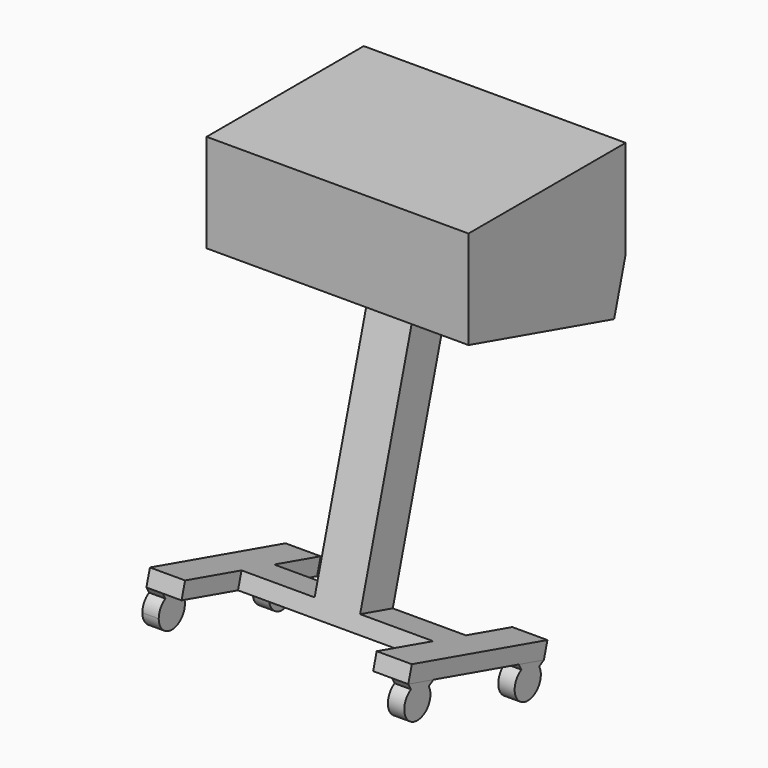
from build123d import *

# Parameters (mm, degrees)
F0_W      = 800
F0_H      = 600
F1_DEPTH  = 300
F3_DEPTH  = 800
F4_W      = 69.4863438606
F4_H      = 64.7975049443
F5_DEPTH  = 800
F7_DEPTH  = 50
F9_DEPTH  = 50
F11_DEPTH = 50


with BuildPart() as f1:
    # F0 (on Top) → F1 (new body)
    with BuildSketch(Plane.XY):
        with Locations((400, 300)):
            Rectangle(F0_W, F0_H)
    extrude(amount=F1_DEPTH)

    # F2 (on face) → F3 (join)
    with BuildSketch(Plane.YZ.offset(800)):
        Polygon((600, 0), (0, 0), (556.1016824686, -156.2431702084), align=None)
    extrude(amount=-F3_DEPTH)

    # F4 (on face) → F5 (join)
    with BuildSketch(Plane(origin=(0, 0, 0), x_dir=(1, 0, 0), z_dir=(0, -0.270488193, -0.9627232923))):
        with Locations((365.2568280697, -256.4182352039)):
            Rectangle(F4_W, F4_H)
        with Locations((434.7431719303, -256.4182352039)):
            Rectangle(F4_W, F4_H)
        with Locations((434.7431719303, -321.2157401482)):
            Rectangle(F4_W, F4_H)
        with Locations((365.2568280697, -321.2157401482)):
            Rectangle(F4_W, F4_H)
    extrude(amount=F5_DEPTH)

    # F6 (on face) → F7 (join)
    with BuildSketch(Plane(origin=(0, -216.3905544, -770.1786338029), x_dir=(1, 0, 0), z_dir=(0, -0.270488193, -0.9627232923))):
        Polygon((107.3435395956, 0), (0, 0), (0, -537.7870798111), (107.3435395956, -537.7870798111), (107.3435395956, -353.6144926203), (330.5136561394, -353.6144926203), (400, -353.6144926203), (400, -224.0194827318), (330.5136561394, -224.0194827318), (107.3435395956, -224.0194827318), align=None)
        Polygon((469.4863438606, -224.0194827318), (400, -224.0194827318), (400, -353.6144926203), (469.4863438606, -353.6144926203), (692.6564604044, -353.6144926203), (692.6564604044, -537.7870798111), (800, -537.7870798111), (800, 0), (692.6564604044, 0), (692.6564604044, -224.0194827318), align=None)
    extrude(amount=F7_DEPTH)

    # F8 (on face) → F9 (join)
    with BuildSketch(Plane(origin=(0, 0, 0), x_dir=(0, -1, 0), z_dir=(-1, 0, 0))):
        with BuildLine():
            Line((219.7774157302, -836.3747624852), (229.91496405, -818.3147984155))
            Line((229.91496405, -818.3147984155), (181.7787994373, -831.8392080655))
            ThreePointArc((181.7787994373, -831.8392080655), (201.2291965173, -830.3277879134), (219.7774157302, -836.3747624852))
        make_face()
        with BuildLine():
            ThreePointArc((151.7025988943, -855.5011660354), (164.3873711275, -840.6789229246), (181.7787994373, -831.8392080655))
            Line((181.7787994373, -831.8392080655), (133.6426348247, -845.3636177156))
            Line((133.6426348247, -845.3636177156), (151.7025988943, -855.5011660354))
        make_face()
        with BuildLine():
            ThreePointArc((219.7774157302, -836.3747624852), (201.2291965173, -830.3277879134), (181.7787994373, -831.8392080655))
            Line((181.7787994373, -831.8392080655), (195.3032090873, -879.9753726782))
            Line((195.3032090873, -879.9753726782), (219.7774157302, -836.3747624852))
        make_face()
        with BuildLine():
            Line((195.3032090873, -879.9753726782), (181.7787994373, -831.8392080655))
            ThreePointArc((181.7787994373, -831.8392080655), (164.3873711275, -840.6789229246), (151.7025988943, -855.5011660354))
            Line((151.7025988943, -855.5011660354), (195.3032090873, -879.9753726782))
        make_face()
        with BuildLine():
            ThreePointArc((245.3032090873, -879.9753726782), (238.4524288494, -854.7138439452), (219.7774157302, -836.3747624852))
            Line((219.7774157302, -836.3747624852), (195.3032090873, -879.9753726782))
            Line((195.3032090873, -879.9753726782), (151.7025988943, -855.5011660354))
            ThreePointArc((151.7025988943, -855.5011660354), (182.6547014609, -928.3490768451), (245.3032090873, -879.9753726782))
        make_face()
        with BuildLine():
            Line((-239.6890150783, -950.2554430038), (-287.8251839572, -963.7798538524))
            Line((-287.8251839572, -963.7798538524), (-269.7652198875, -973.9174021722))
            ThreePointArc((-269.7652198875, -973.9174021722), (-257.0804459129, -959.0951576914), (-239.6890150783, -950.2554430038))
        make_face()
        with BuildLine():
            ThreePointArc((-239.6890150783, -950.2554430038), (-257.0804459129, -959.0951576914), (-269.7652198875, -973.9174021722))
            Line((-269.7652198875, -973.9174021722), (-226.1646096945, -998.3916088151))
            Line((-226.1646096945, -998.3916088151), (-201.6904030516, -954.7909986221))
            ThreePointArc((-201.6904030516, -954.7909986221), (-220.2386200645, -948.7440243129), (-239.6890150783, -950.2554430038))
        make_face()
        with BuildLine():
            Line((-226.1646096945, -998.3916088151), (-269.7652198875, -973.9174021722))
            ThreePointArc((-269.7652198875, -973.9174021722), (-238.8131173209, -1046.765312982), (-176.1646096945, -998.3916088151))
            ThreePointArc((-176.1646096945, -998.3916088151), (-183.0153899325, -973.1300800821), (-201.6904030516, -954.7909986221))
            Line((-201.6904030516, -954.7909986221), (-226.1646096945, -998.3916088151))
        make_face()
        with BuildLine():
            Line((-191.5528547318, -936.7310345524), (-239.6890150783, -950.2554430038))
            ThreePointArc((-239.6890150783, -950.2554430038), (-220.2386200645, -948.7440243129), (-201.6904030516, -954.7909986221))
            Line((-201.6904030516, -954.7909986221), (-191.5528547318, -936.7310345524))
        make_face()
    extrude(amount=-F9_DEPTH)


with BuildPart() as f11:
    # F10 (on face) → F11 (new body)
    with BuildSketch(Plane.YZ.offset(800)):
        with BuildLine():
            Line((269.7652198875, -973.9174021722), (287.8251839572, -963.7798538524))
            Line((287.8251839572, -963.7798538524), (239.6890193445, -950.2554442024))
            ThreePointArc((239.6890193445, -950.2554442024), (257.0804476543, -959.0951590614), (269.7652198875, -973.9174021722))
        make_face()
        with BuildLine():
            ThreePointArc((201.6904030516, -954.7909986221), (220.2386222645, -948.7440240503), (239.6890193445, -950.2554442024))
            Line((239.6890193445, -950.2554442024), (191.5528547318, -936.7310345524))
            Line((191.5528547318, -936.7310345524), (201.6904030516, -954.7909986221))
        make_face()
        with BuildLine():
            ThreePointArc((269.7652198875, -973.9174021722), (257.0804476543, -959.0951590614), (239.6890193445, -950.2554442024))
            Line((239.6890193445, -950.2554442024), (226.1646096945, -998.3916088151))
            Line((226.1646096945, -998.3916088151), (269.7652198875, -973.9174021722))
        make_face()
        with BuildLine():
            Line((226.1646096945, -998.3916088151), (239.6890193445, -950.2554442024))
            ThreePointArc((239.6890193445, -950.2554442024), (220.2386222645, -948.7440240503), (201.6904030516, -954.7909986221))
            Line((201.6904030516, -954.7909986221), (226.1646096945, -998.3916088151))
        make_face()
        with BuildLine():
            ThreePointArc((276.1646096945, -998.3916088151), (274.5383138614, -985.7431011887), (269.7652198875, -973.9174021722))
            Line((269.7652198875, -973.9174021722), (226.1646096945, -998.3916088151))
            Line((226.1646096945, -998.3916088151), (201.6904030516, -954.7909986221))
            ThreePointArc((201.6904030516, -954.7909986221), (200.9030809615, -1041.5408285771), (276.1646096945, -998.3916088151))
        make_face()
    extrude(amount=-F11_DEPTH)


with BuildPart() as f11b:
    # F10 (on face) → F11, piece 2 (new body)
    with BuildSketch(Plane.YZ.offset(800)):
        with BuildLine():
            ThreePointArc((-219.7774157302, -836.3747624852), (-220.5647378203, -923.1245924403), (-145.3032090873, -879.9753726782))
            ThreePointArc((-145.3032090873, -879.9753726782), (-146.9295049205, -867.3268650518), (-151.7025988943, -855.5011660354))
            Line((-151.7025988943, -855.5011660354), (-195.3032090873, -879.9753726782))
            Line((-195.3032090873, -879.9753726782), (-219.7774157302, -836.3747624852))
        make_face()
        with BuildLine():
            Line((-195.3032090873, -879.9753726782), (-151.7025988943, -855.5011660354))
            ThreePointArc((-151.7025988943, -855.5011660354), (-164.3873715072, -840.6789226258), (-181.7788003675, -831.8392078042))
            ThreePointArc((-181.7788003675, -831.8392078042), (-201.229196997, -830.3277879707), (-219.7774157302, -836.3747624852))
            Line((-219.7774157302, -836.3747624852), (-195.3032090873, -879.9753726782))
        make_face()
        with BuildLine():
            ThreePointArc((-181.7788003675, -831.8392078042), (-164.3873715072, -840.6789226258), (-151.7025988943, -855.5011660354))
            Line((-151.7025988943, -855.5011660354), (-133.6426348247, -845.3636177156))
            Line((-133.6426348247, -845.3636177156), (-181.7788003675, -831.8392078042))
        make_face()
        with BuildLine():
            Line((-229.91496405, -818.3147984155), (-219.7774157302, -836.3747624852))
            ThreePointArc((-219.7774157302, -836.3747624852), (-201.229196997, -830.3277879707), (-181.7788003675, -831.8392078042))
            Line((-181.7788003675, -831.8392078042), (-229.91496405, -818.3147984155))
        make_face()
    extrude(amount=-F11_DEPTH)


solid = Compound([f1.part, f11.part, f11b.part])
